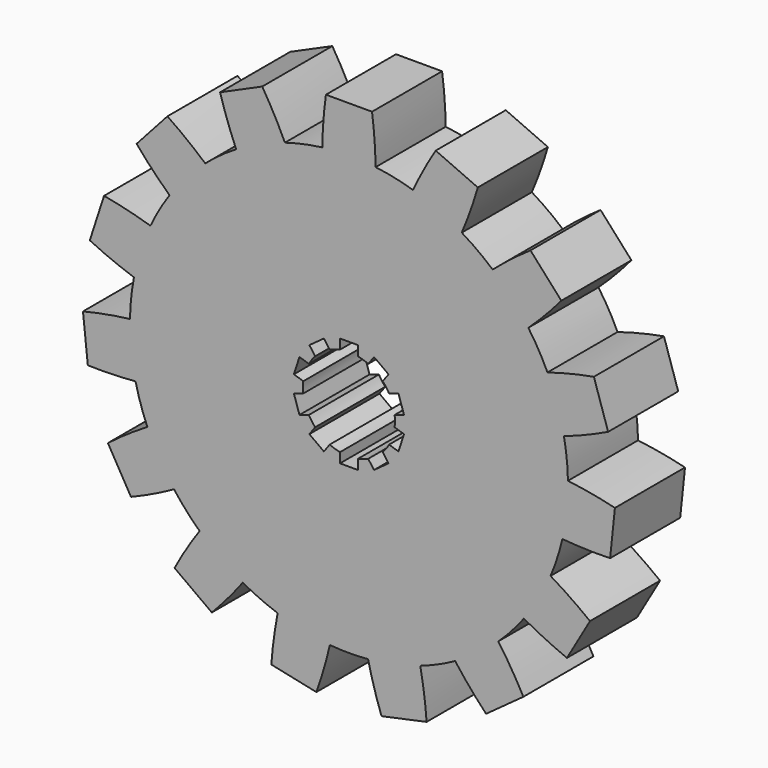
from build123d import *

# Parameters (mm, degrees)
F1_DEPTH = 20


with BuildPart() as f1:
    # F0 (on Front) → F1 (new body)
    with BuildSketch(Plane.XZ):
        with BuildLine():
            ThreePointArc((-48.48151, 36.57166), (-44.837984, 32.512816), (-40.955282, 28.682135))
            ThreePointArc((-40.955282, 28.682135), (-43.30127, 25), (-45.317098, 21.127248))
            ThreePointArc((-45.317098, 21.127248), (-50.575917, 22.574425), (-55.912741, 23.700389))
            Line((-55.912741, 23.700389), (-59.165097, 13.690667))
            ThreePointArc((-59.165097, 13.690667), (-54.18569, 11.464684), (-49.080587, 9.54442))
            ThreePointArc((-49.080587, 9.54442), (-49.726095, 5.226423), (-49.992455, 0.868577))
            ThreePointArc((-49.992455, 0.868577), (-55.385245, 0.051685), (-60.718648, -1.090378))
            Line((-60.718648, -1.090378), (-59.618502, -11.557566))
            ThreePointArc((-59.618502, -11.557566), (-54.164198, -11.565795), (-48.719413, -11.243612))
            ThreePointArc((-48.719413, -11.243612), (-47.552826, -15.45085), (-46.023662, -19.540279))
            ThreePointArc((-46.023662, -19.540279), (-50.617961, -22.479992), (-55.025748, -25.692609))
            Line((-55.025748, -25.692609), (-49.763326, -34.807391))
            ThreePointArc((-49.763326, -34.807391), (-44.777225, -32.596444), (-39.934209, -30.087521))
            ThreePointArc((-39.934209, -30.087521), (-37.157241, -33.45653), (-34.09696, -36.570443))
            ThreePointArc((-34.09696, -36.570443), (-37.098372, -41.124674), (-39.818397, -45.852354))
            Line((-39.818397, -45.852354), (-31.303619, -52.038702))
            ThreePointArc((-31.303619, -52.038702), (-27.647862, -47.990872), (-24.244018, -43.729025))
            ThreePointArc((-24.244018, -43.729025), (-20.336832, -45.677273), (-16.274584, -47.277245))
            ThreePointArc((-16.274584, -47.277245), (-17.164137, -52.658526), (-17.726083, -58.083811))
            Line((-17.726083, -58.083811), (-7.431232, -60.272049))
            ThreePointArc((-7.431232, -60.272049), (-5.737933, -55.087241), (-4.361816, -49.809382))
            ThreePointArc((-4.361816, -49.809382), (0, -50), (4.361816, -49.809382))
            ThreePointArc((4.361816, -49.809382), (5.737933, -55.087241), (7.431232, -60.272049))
            Line((7.431232, -60.272049), (17.726083, -58.083811))
            ThreePointArc((17.726083, -58.083811), (17.164137, -52.658526), (16.274584, -47.277245))
            ThreePointArc((16.274584, -47.277245), (20.336832, -45.677273), (24.244018, -43.729025))
            ThreePointArc((24.244018, -43.729025), (27.647862, -47.990872), (31.303619, -52.038702))
            Line((31.303619, -52.038702), (39.818397, -45.852354))
            ThreePointArc((39.818397, -45.852354), (37.098372, -41.124674), (34.09696, -36.570443))
            ThreePointArc((34.09696, -36.570443), (37.157241, -33.45653), (39.934209, -30.087521))
            ThreePointArc((39.934209, -30.087521), (44.777225, -32.596444), (49.763326, -34.807391))
            Line((49.763326, -34.807391), (55.025748, -25.692609))
            ThreePointArc((55.025748, -25.692609), (50.617961, -22.479992), (46.023662, -19.540279))
            ThreePointArc((46.023662, -19.540279), (47.552826, -15.45085), (48.719413, -11.243612))
            ThreePointArc((48.719413, -11.243612), (54.164198, -11.565795), (59.618502, -11.557566))
            Line((59.618502, -11.557566), (60.718648, -1.090378))
            ThreePointArc((60.718648, -1.090378), (55.385245, 0.051685), (49.992455, 0.868577))
            ThreePointArc((49.992455, 0.868577), (49.726095, 5.226423), (49.080587, 9.54442))
            ThreePointArc((49.080587, 9.54442), (54.18569, 11.464684), (59.165097, 13.690667))
            Line((59.165097, 13.690667), (55.912741, 23.700389))
            ThreePointArc((55.912741, 23.700389), (50.575917, 22.574425), (45.317098, 21.127248))
            ThreePointArc((45.317098, 21.127248), (43.30127, 25), (40.955282, 28.682135))
            ThreePointArc((40.955282, 28.682135), (44.837984, 32.512816), (48.48151, 36.57166))
            Line((48.48151, 36.57166), (41.439014, 44.393143))
            ThreePointArc((41.439014, 44.393143), (37.021553, 41.193842), (32.806004, 37.732826))
            ThreePointArc((32.806004, 37.732826), (29.389263, 40.45085), (25.748437, 42.860448))
            ThreePointArc((25.748437, 42.860448), (27.737383, 47.939187), (29.415029, 53.12908))
            Line((29.415029, 53.12908), (19.800105, 57.40992))
            ThreePointArc((19.800105, 57.40992), (17.065827, 52.69047), (14.622453, 47.814055))
            ThreePointArc((14.622453, 47.814055), (10.395585, 48.90738), (6.089453, 49.6278))
            ThreePointArc((6.089453, 49.6278), (5.840736, 55.076436), (5.262422, 60.5))
            Line((5.262422, 60.5), (-5.262422, 60.5))
            ThreePointArc((-5.262422, 60.5), (-5.840736, 55.076436), (-6.089453, 49.6278))
            ThreePointArc((-6.089453, 49.6278), (-10.395585, 48.90738), (-14.622453, 47.814055))
            ThreePointArc((-14.622453, 47.814055), (-17.065827, 52.69047), (-19.800105, 57.40992))
            Line((-19.800105, 57.40992), (-29.415029, 53.12908))
            ThreePointArc((-29.415029, 53.12908), (-27.737383, 47.939187), (-25.748437, 42.860448))
            ThreePointArc((-25.748437, 42.860448), (-29.389263, 40.45085), (-32.806004, 37.732826))
            ThreePointArc((-32.806004, 37.732826), (-37.021553, 41.193842), (-41.439014, 44.393143))
            Line((-41.439014, 44.393143), (-48.48151, 36.57166))
        make_face()
        with BuildLine():
            ThreePointArc((-2.05, -10.297937), (-3.244678, -9.986093), (-4.39449, -9.536166))
            Line((-4.39449, -9.536166), (-5.71822, -11.358123))
            Line((-5.71822, -11.358123), (-9.03519, -8.948204))
            Line((-9.03519, -8.948204), (-7.71146, -7.126246))
            ThreePointArc((-7.71146, -7.126246), (-8.494678, -6.171745), (-9.160435, -5.131903))
            Line((-9.160435, -5.131903), (-11.302274, -5.827829))
            Line((-11.302274, -5.827829), (-12.569244, -1.928497))
            Line((-12.569244, -1.928497), (-10.427405, -1.232572))
            ThreePointArc((-10.427405, -1.232572), (-10.5, 0), (-10.427405, 1.232572))
            Line((-10.427405, 1.232572), (-12.569244, 1.928497))
            Line((-12.569244, 1.928497), (-11.302274, 5.827829))
            Line((-11.302274, 5.827829), (-9.160435, 5.131903))
            ThreePointArc((-9.160435, 5.131903), (-8.494678, 6.171745), (-7.71146, 7.126246))
            Line((-7.71146, 7.126246), (-9.03519, 8.948204))
            Line((-9.03519, 8.948204), (-5.71822, 11.358123))
            Line((-5.71822, 11.358123), (-4.39449, 9.536166))
            ThreePointArc((-4.39449, 9.536166), (-3.244678, 9.986093), (-2.05, 10.297937))
            Line((-2.05, 10.297937), (-2.05, 12.55))
            Line((-2.05, 12.55), (2.05, 12.55))
            Line((2.05, 12.55), (2.05, 10.297937))
            ThreePointArc((2.05, 10.297937), (3.244678, 9.986093), (4.39449, 9.536166))
            Line((4.39449, 9.536166), (5.71822, 11.358123))
            Line((5.71822, 11.358123), (9.03519, 8.948204))
            Line((9.03519, 8.948204), (7.71146, 7.126246))
            ThreePointArc((7.71146, 7.126246), (8.494678, 6.171745), (9.160435, 5.131903))
            Line((9.160435, 5.131903), (11.302274, 5.827829))
            Line((11.302274, 5.827829), (12.569244, 1.928497))
            Line((12.569244, 1.928497), (10.427405, 1.232572))
            ThreePointArc((10.427405, 1.232572), (10.5, 0), (10.427405, -1.232572))
            Line((10.427405, -1.232572), (12.569244, -1.928497))
            Line((12.569244, -1.928497), (11.302274, -5.827829))
            Line((11.302274, -5.827829), (9.160435, -5.131903))
            ThreePointArc((9.160435, -5.131903), (8.494678, -6.171745), (7.71146, -7.126246))
            Line((7.71146, -7.126246), (9.03519, -8.948204))
            Line((9.03519, -8.948204), (5.71822, -11.358123))
            Line((5.71822, -11.358123), (4.39449, -9.536166))
            ThreePointArc((4.39449, -9.536166), (3.244678, -9.986093), (2.05, -10.297937))
            Line((2.05, -10.297937), (2.05, -12.55))
            Line((2.05, -12.55), (-2.05, -12.55))
            Line((-2.05, -12.55), (-2.05, -10.297937))
        make_face(mode=Mode.SUBTRACT)
    extrude(amount=F1_DEPTH)


solid = f1.part
